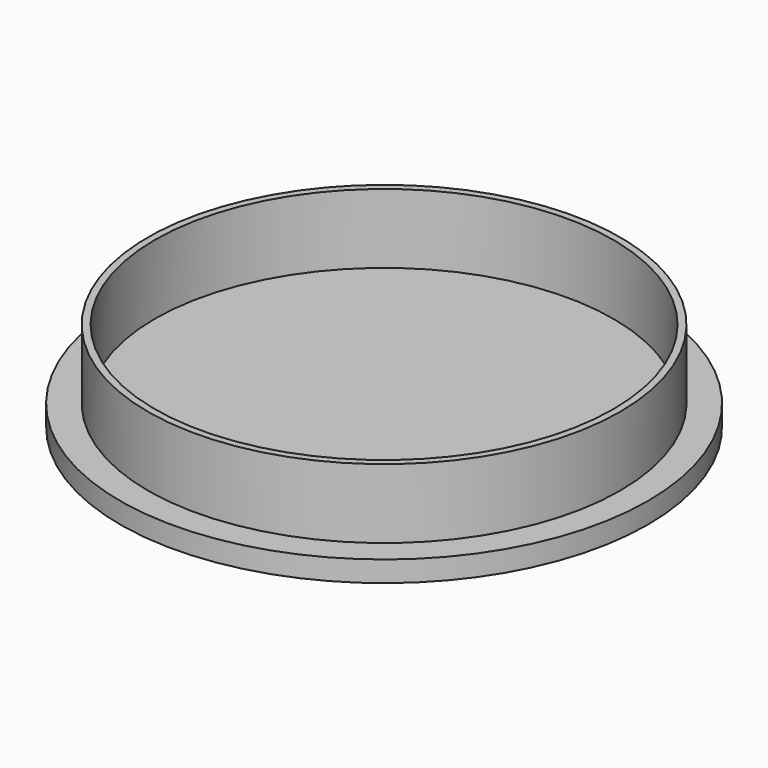
from build123d import *

# Parameters (mm, degrees)
SKETCH_R     = 34
SKETCH_R_2   = 33
PAD_DEPTH    = 10
SKETCH001_R  = 38
PAD001_DEPTH = 3


with BuildPart() as part:
    # Sketch → Pad (new body)
    with BuildSketch(Plane.XY):
        Circle(SKETCH_R)
        Circle(SKETCH_R_2, mode=Mode.SUBTRACT)
    extrude(amount=PAD_DEPTH)

    # Sketch001 → Pad001 (join)
    with BuildSketch(Plane.XY):
        Circle(SKETCH001_R)
    extrude(amount=-PAD001_DEPTH)


solid = part.part
